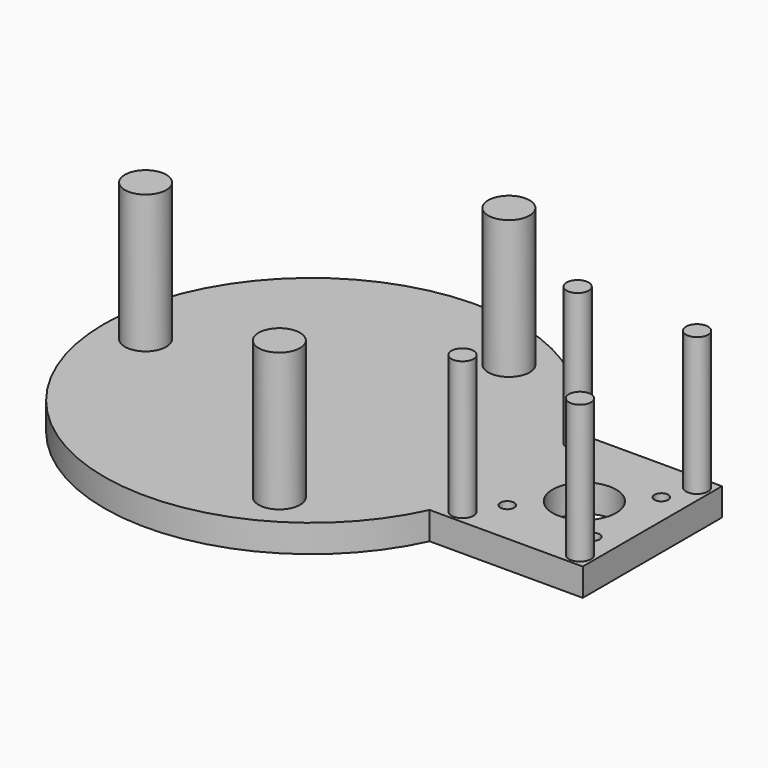
from build123d import *

# Parameters (mm, degrees)
F1_DEPTH = 10
F2_R     = 2.5
F3_DEPTH = 10
F2_R_2   = 11.5
F4_DEPTH = 10
F5_R     = 7.5
F5_R_2   = 4
F6_DEPTH = 50


with BuildPart() as f1:
    # F0 (on Top) → F1 (new body)
    with BuildSketch(Plane.XY):
        with BuildLine():
            ThreePointArc((68.064308, -31.5), (73.245556, -16.127258), (75, 0))
            ThreePointArc((75, 0), (73.245556, 16.127258), (68.064308, 31.5))
            ThreePointArc((68.064308, 31.5), (-75, 0), (68.064308, -31.5))
        make_face()
        with BuildLine():
            ThreePointArc((68.064308, 31.5), (73.245556, 16.127258), (75, 0))
            ThreePointArc((75, 0), (73.245556, -16.127258), (68.064308, -31.5))
            Line((68.064308, -31.5), (123.52035, -31.5))
            Line((123.52035, -31.5), (123.52035, 31.5))
            Line((123.52035, 31.5), (68.064308, 31.5))
        make_face()
    extrude(amount=F1_DEPTH)

    # F2 (on face) → F3 (cut, through all)
    with BuildSketch(Plane.XY):
        with Locations((114.399239, 15.5)):
            Circle(F2_R)
        with Locations((83.399239, 15.5)):
            Circle(F2_R)
        with Locations((83.399239, -15.5)):
            Circle(F2_R)
        with Locations((114.399239, -15.5)):
            Circle(F2_R)
    extrude(amount=F3_DEPTH, mode=Mode.SUBTRACT)

    # F2 (on face) → F4 (cut, through all)
    with BuildSketch(Plane.XY):
        with Locations((98.899239, 0)):
            Circle(F2_R_2)
    extrude(amount=F4_DEPTH, mode=Mode.SUBTRACT)

    # F5 (on face) → F6 (join)
    with BuildSketch(Plane.XY.offset(10)):
        with Locations((-60, 0)):
            Circle(F5_R)
        with Locations((30, 51.961524)):
            Circle(F5_R)
        with Locations((30, -51.961524)):
            Circle(F5_R)
        with Locations((75.972773, -26.5)):
            Circle(F5_R_2)
        with Locations((118.52035, -26.5)):
            Circle(F5_R_2)
        with Locations((75.264111, 26.5)):
            Circle(F5_R_2)
        with Locations((118.52035, 26.5)):
            Circle(F5_R_2)
    extrude(amount=F6_DEPTH)


solid = f1.part
